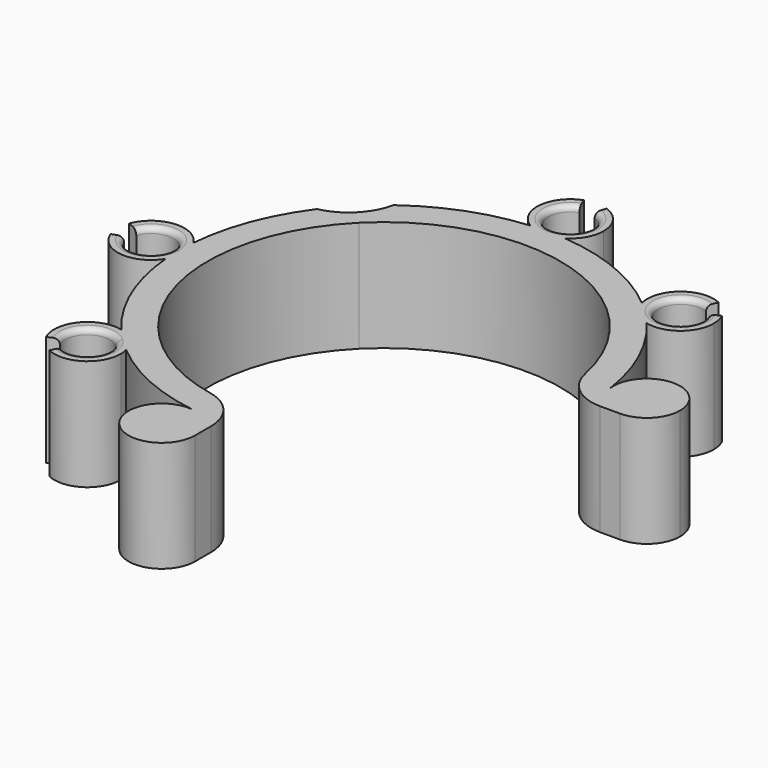
from build123d import *

# Parameters (mm, degrees)
F1_DEPTH = 12.7
F2_R     = 5.08
F3_R     = 0.635


with BuildPart() as f1:
    # F0 (on Top) → F1 (new body)
    with BuildSketch(Plane.XY):
        with BuildLine():
            ThreePointArc((0, -27.0378794472), (-0.9340999192, -24.538819879), (-3.2783720342, -23.2651520907))
            ThreePointArc((-3.2783720342, -23.2651520907), (-6.6859000808, -29.5369390153), (0, -27.0378794472))
        make_face()
        with BuildLine():
            Line((0, -27.0378794472), (0, -23.495))
            ThreePointArc((0, -23.495), (-1.6432097596, -23.4374675826), (-3.2783720342, -23.2651520907))
            ThreePointArc((-3.2783720342, -23.2651520907), (-0.9340999192, -24.538819879), (0, -27.0378794472))
        make_face()
        with BuildLine():
            ThreePointArc((30.8478794472, 3.81), (26.7714129652, 7.6106704164), (23.2651520907, 3.2783720342))
            ThreePointArc((23.2651520907, 3.2783720342), (24.538819879, 0.9340999192), (27.0378794472, 0))
            ThreePointArc((27.0378794472, 0), (29.7319562835, 1.1159231637), (30.8478794472, 3.81))
        make_face()
        with BuildLine():
            ThreePointArc((-14.2786072325, 14.2786072325), (7.7275265497, 18.6558994), (20.193, 0))
            Line((20.193, 0), (23.495, 0))
            ThreePointArc((23.495, 0), (23.4374675826, 1.6432097596), (23.2651520907, 3.2783720342))
            ThreePointArc((23.2651520907, 3.2783720342), (21.447123173, 9.5935359801), (17.9511929753, 15.1581560806))
            ThreePointArc((17.9511929753, 15.1581560806), (16.1644610179, 16.1644610179), (15.1581560806, 17.9511929753))
            ThreePointArc((15.1581560806, 17.9511929753), (8.9911472434, 21.7065496164), (1.9749753283, 23.4118452381))
            ThreePointArc((1.9749753283, 23.4118452381), (0, 22.86), (-1.9749753283, 23.4118452381))
            ThreePointArc((-1.9749753283, 23.4118452381), (-8.302856588, 21.9790263087), (-13.9975862877, 18.8701511154))
            ThreePointArc((-13.9975862877, 18.8701511154), (-14.6287967331, 17.1687967331), (-15.7154482119, 15.7154482119))
            Line((-15.7154482119, 15.7154482119), (-14.2786072325, 14.2786072325))
        make_face()
        with BuildLine():
            ThreePointArc((23.2651520907, 3.2783720342), (23.4374675826, 1.6432097596), (23.495, 0))
            Line((23.495, 0), (27.0378794472, 0))
            ThreePointArc((27.0378794472, 0), (24.538819879, 0.9340999192), (23.2651520907, 3.2783720342))
        make_face()
        with BuildLine():
            Line((0, -23.495), (0, -20.193))
            ThreePointArc((0, -20.193), (-7.7275265497, -18.6558994), (-14.2786072325, -14.2786072325))
            Line((-14.2786072325, -14.2786072325), (-16.1644610179, -16.1644610179))
            ThreePointArc((-16.1644610179, -16.1644610179), (-15.5388423862, -16.9888528542), (-15.1581560806, -17.9511929753))
            ThreePointArc((-15.1581560806, -17.9511929753), (-9.5935359801, -21.447123173), (-3.2783720342, -23.2651520907))
            ThreePointArc((-3.2783720342, -23.2651520907), (-1.6432097596, -23.4374675826), (0, -23.495))
        make_face()
        with BuildLine():
            Line((-16.1644610179, -16.1644610179), (-14.2786072325, -14.2786072325))
            ThreePointArc((-14.2786072325, -14.2786072325), (-20.193, 0), (-14.2786072325, 14.2786072325))
            Line((-14.2786072325, 14.2786072325), (-15.7154482119, 15.7154482119))
            ThreePointArc((-15.7154482119, 15.7154482119), (-17.1687967331, 14.6287967331), (-18.8701511154, 13.9975862877))
            ThreePointArc((-18.8701511154, 13.9975862877), (-21.9790263087, 8.302856588), (-23.4118452381, 1.9749753283))
            ThreePointArc((-23.4118452381, 1.9749753283), (-23.0005538808, 1.0253122347), (-22.86, 0))
            ThreePointArc((-22.86, 0), (-23.0005538808, -1.0253122347), (-23.4118452381, -1.9749753283))
            ThreePointArc((-23.4118452381, -1.9749753283), (-21.7065496164, -8.9911472434), (-17.9511929753, -15.1581560806))
            ThreePointArc((-17.9511929753, -15.1581560806), (-16.9888528542, -15.5388423862), (-16.1644610179, -16.1644610179))
        make_face()
        with BuildLine():
            ThreePointArc((-15.1581560806, -17.9511929753), (-15.8998896169, -17.2976453649), (-16.613473824, -16.613473824))
            Line((-16.613473824, -16.613473824), (-17.06248663, -17.06248663))
            ThreePointArc((-17.06248663, -17.06248663), (-16.5118838417, -17.886521936), (-16.3185378542, -18.8585378542))
            ThreePointArc((-16.3185378542, -18.8585378542), (-17.493796849, -21.0007521266), (-19.9319882391, -21.1605596333))
            Line((-19.9319882391, -21.1605596333), (-20.4687134315, -22.3115705229))
            ThreePointArc((-20.4687134315, -22.3115705229), (-16.8114263464, -22.0718592628), (-15.0485378542, -18.8585378542))
            ThreePointArc((-15.0485378542, -18.8585378542), (-15.0760416839, -18.4015666065), (-15.1581560806, -17.9511929753))
        make_face()
        with BuildLine():
            Line((-17.06248663, -17.06248663), (-16.613473824, -16.613473824))
            ThreePointArc((-16.613473824, -16.613473824), (-17.2976453649, -15.8998896169), (-17.9511929753, -15.1581560806))
            ThreePointArc((-17.9511929753, -15.1581560806), (-21.8031322957, -16.440798502), (-22.3115705229, -20.4687134315))
            Line((-22.3115705229, -20.4687134315), (-21.1605596333, -19.9319882391))
            ThreePointArc((-21.1605596333, -19.9319882391), (-20.3154220026, -16.7778916618), (-17.06248663, -17.06248663))
        make_face()
        with BuildLine():
            ThreePointArc((-15.1581560806, -17.9511929753), (-15.5388423862, -16.9888528542), (-16.1644610179, -16.1644610179))
            Line((-16.1644610179, -16.1644610179), (-16.613473824, -16.613473824))
            ThreePointArc((-16.613473824, -16.613473824), (-15.8998896169, -17.2976453649), (-15.1581560806, -17.9511929753))
        make_face()
        with BuildLine():
            Line((-16.613473824, -16.613473824), (-16.1644610179, -16.1644610179))
            ThreePointArc((-16.1644610179, -16.1644610179), (-16.9888528542, -15.5388423862), (-17.9511929753, -15.1581560806))
            ThreePointArc((-17.9511929753, -15.1581560806), (-17.2976453649, -15.8998896169), (-16.613473824, -16.613473824))
        make_face()
        with BuildLine():
            ThreePointArc((-23.4118452381, 1.9749753283), (-23.495, 0), (-23.4118452381, -1.9749753283))
            ThreePointArc((-23.4118452381, -1.9749753283), (-23.0005538808, -1.0253122347), (-22.86, 0))
            ThreePointArc((-22.86, 0), (-23.0005538808, 1.0253122347), (-23.4118452381, 1.9749753283))
        make_face()
        with BuildLine():
            ThreePointArc((-30.2502288852, -1.3030967461), (-27.0425428063, -3.7917425885), (-23.4118452381, -1.9749753283))
            ThreePointArc((-23.4118452381, -1.9749753283), (-23.495, 0), (-23.4118452381, 1.9749753283))
            ThreePointArc((-23.4118452381, 1.9749753283), (-27.0425428063, 3.7917425885), (-30.2502288852, 1.3030967461))
            Line((-30.2502288852, 1.3030967461), (-29.0568192568, 0.868731164))
            ThreePointArc((-29.0568192568, 0.868731164), (-26.2289336287, 2.5014116927), (-24.13, 0))
            ThreePointArc((-24.13, 0), (-26.2289336287, -2.5014116927), (-29.0568192568, -0.868731164))
            Line((-29.0568192568, -0.868731164), (-30.2502288852, -1.3030967461))
        make_face()
        with BuildLine():
            ThreePointArc((1.9749753283, 23.4118452381), (0, 23.495), (-1.9749753283, 23.4118452381))
            ThreePointArc((-1.9749753283, 23.4118452381), (0, 22.86), (1.9749753283, 23.4118452381))
        make_face()
        with BuildLine():
            ThreePointArc((-1.3030967461, 30.2502288852), (-3.7917425885, 27.0425428063), (-1.9749753283, 23.4118452381))
            ThreePointArc((-1.9749753283, 23.4118452381), (0, 23.495), (1.9749753283, 23.4118452381))
            ThreePointArc((1.9749753283, 23.4118452381), (3.319695468, 24.8003149999), (3.81, 26.67))
            ThreePointArc((3.81, 26.67), (3.1209692887, 28.8553262225), (1.3030967461, 30.2502288852))
            Line((1.3030967461, 30.2502288852), (0.868731164, 29.0568192568))
            ThreePointArc((0.868731164, 29.0568192568), (2.0806461925, 28.1268841483), (2.54, 26.67))
            ThreePointArc((2.54, 26.67), (-1.4568841483, 24.5893538075), (-0.868731164, 29.0568192568))
            Line((-0.868731164, 29.0568192568), (-1.3030967461, 30.2502288852))
        make_face()
        with BuildLine():
            ThreePointArc((15.1581560806, 17.9511929753), (16.1644610179, 16.1644610179), (17.9511929753, 15.1581560806))
            ThreePointArc((17.9511929753, 15.1581560806), (16.613473824, 16.613473824), (15.1581560806, 17.9511929753))
        make_face()
        with BuildLine():
            ThreePointArc((15.1581560806, 17.9511929753), (16.613473824, 16.613473824), (17.9511929753, 15.1581560806))
            ThreePointArc((17.9511929753, 15.1581560806), (21.2100390781, 15.8607816943), (22.6685378542, 18.8585378542))
            ThreePointArc((22.6685378542, 18.8585378542), (22.5782256414, 19.6831727833), (22.3115705229, 20.4687134315))
            Line((22.3115705229, 20.4687134315), (21.1605596333, 19.9319882391))
            ThreePointArc((21.1605596333, 19.9319882391), (21.3383297123, 19.4082944736), (21.3985378542, 18.8585378542))
            ThreePointArc((21.3985378542, 18.8585378542), (16.7163235819, 17.493796849), (19.9319882391, 21.1605596333))
            Line((19.9319882391, 21.1605596333), (20.4687134315, 22.3115705229))
            ThreePointArc((20.4687134315, 22.3115705229), (16.440798502, 21.8031322957), (15.1581560806, 17.9511929753))
        make_face()
    extrude(amount=F1_DEPTH)

    # F2
    f2_edges = [f1.edges().sort_by_distance(p)[0] for p in [
        (0, -20.193, 6.35),
        (20.193, 0, 6.35),
    ]]
    fillet(f2_edges, radius=F2_R)

    # F3
    f3_edges = [f1.edges().sort_by_distance(p)[0] for p in [
        (-24.13, 0, 12.7),
        (-17.062487, -17.062487, 12.7),
        (0, 24.13, 12.7),
        (17.062487, 17.062487, 12.7),
        (-17.062487, -17.062487, 0),
        (-24.13, 0, 0),
        (17.062487, 17.062487, 0),
        (0, 24.13, 0),
    ]]
    fillet(f3_edges, radius=F3_R)


solid = f1.part
